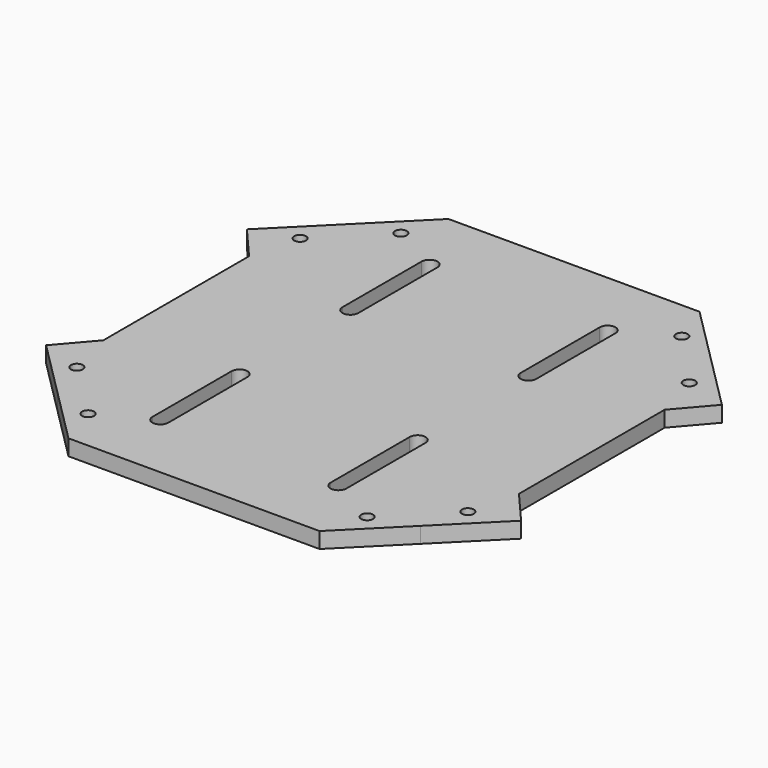
from build123d import *

# Parameters (mm, degrees)
F5_DEPTH = 4
F7_D     = 3
F9_DEPTH = 4.001


with BuildPart() as f5:
    # F4 (on Top) → F5 (new body)
    with BuildSketch(Plane.XY):
        Polygon((31.7157287525, 60), (-31.7157287525, 60), (-45.8578643763, 45.8578643763), (-60, 31.7157287525), (-53.459262274, 24.1143308548), (-52.5, 22.9995125363), (-52.5, -22.9995125363), (-60, -31.7157287525), (-45.8578643763, -45.8578643763), (-31.7157287525, -60), (31.7157287525, -60), (45.8578643763, -45.8578643763), (60, -31.7157287525), (52.5, -22.9995125363), (52.5, 22.9995125363), (60, 31.7157287525), (45.8578643763, 45.8578643763), align=None)
    extrude(amount=F5_DEPTH)

    # F7 (through all)
    with Locations(Plane(origin=(0, 0, 0), x_dir=(1, 0, 0), z_dir=(0, 0, -1))):
        with Locations((-49.3933982822, -35.2512626585), (-35.2512626585, -49.3933982822), (35.5175525155, -49.6500174851), (49.1271084251, -34.9946434556), (49.3933982822, 35.2512626585), (35.2512626585, 49.3933982822), (-35.2512626585, 49.3933982822), (-49.3933982822, 35.2512626585)):
            Hole(F7_D / 2)

    # F8 (on face) + F0 (on Top) → F9 (cut, through all)
    with BuildSketch(Plane.XY.offset(4)):
        with BuildLine():
            ThreePointArc((-20.5, 42.5), (-22.5, 44.5), (-24.5, 42.5))
            Line((-24.5, 42.5), (-24.5, 17.5))
            ThreePointArc((-24.5, 17.5), (-22.5, 15.5), (-20.5, 17.5))
            Line((-20.5, 17.5), (-20.5, 42.5))
        make_face()
        with BuildLine():
            ThreePointArc((24.5, 42.5), (22.5, 44.5), (20.5, 42.5))
            Line((20.5, 42.5), (20.5, 17.5))
            ThreePointArc((20.5, 17.5), (22.5, 15.5), (24.5, 17.5))
            Line((24.5, 17.5), (24.5, 42.5))
        make_face()
        with BuildLine():
            ThreePointArc((20.5, -42.5), (22.5, -44.5), (24.5, -42.5))
            Line((24.5, -42.5), (24.5, -17.5))
            ThreePointArc((24.5, -17.5), (22.5, -15.5), (20.5, -17.5))
            Line((20.5, -17.5), (20.5, -42.5))
        make_face()
        with BuildLine():
            ThreePointArc((-20.5, -17.5), (-22.5, -15.5), (-24.5, -17.5))
            Line((-24.5, -17.5), (-24.5, -42.5))
            ThreePointArc((-24.5, -42.5), (-22.5, -44.5), (-20.5, -42.5))
            Line((-20.5, -42.5), (-20.5, -17.5))
        make_face()
    with BuildSketch(Plane.XY):
        with BuildLine():
            Line((-92.5269119346, 112.3259018078), (-120.6951909025, 148.176438676))
            ThreePointArc((-120.6951909025, 148.176438676), (-118.5238761033, 143.1793796454), (-117.7817459305, 137.7817459305))
            ThreePointArc((-117.7817459305, 137.7817459305), (-127.9810789866, 120.3476721824), (-148.176438676, 120.6951909025))
            Line((-148.176438676, 120.6951909025), (-112.3259018078, 92.5269119346))
            Line((-112.3259018078, 92.5269119346), (-60, 31.7157287525))
            Line((-60, 31.7157287525), (-31.7157287525, 60))
            Line((-31.7157287525, 60), (-92.5269119346, 112.3259018078))
        make_face()
    extrude(amount=-F9_DEPTH, mode=Mode.SUBTRACT)


solid = f5.part
